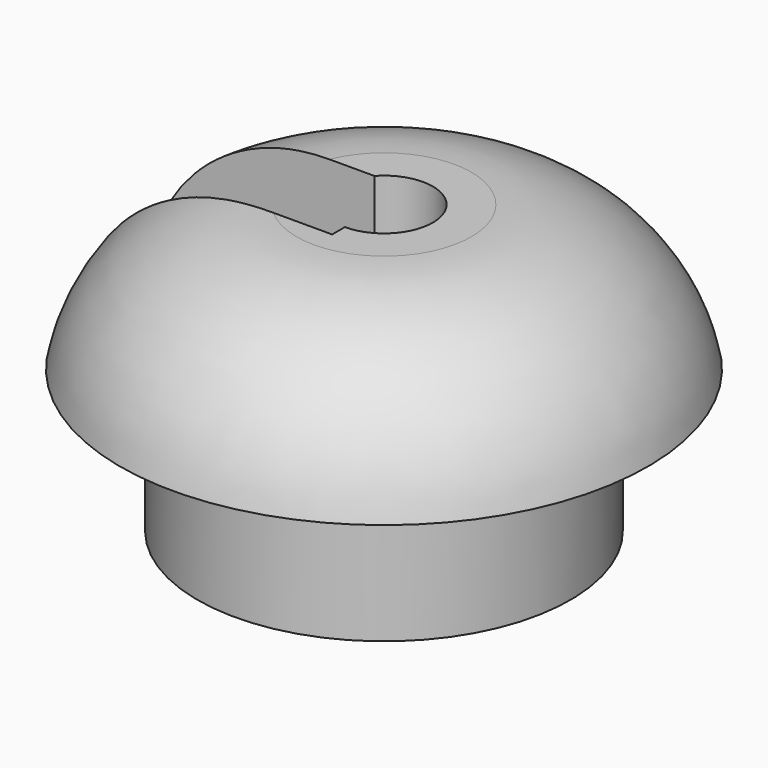
from build123d import *

# Parameters (mm, degrees)
F3_W     = 4
F3_H     = 13.1636379468
F4_DEPTH = 10.7897276517


with BuildPart() as f2:
    # F1 (on Front) → F2 (revolve)
    with BuildSketch(Plane.XZ):
        with BuildLine():
            ThreePointArc((2, 9.5173232257), (3.7962324027, 4.9229765601), (4.1105155833, 0))
            Line((4.1105155833, 0), (6.425, 0))
            Line((6.425, 0), (7.625, 0))
            Line((7.625, 0), (7.625, 5.8279288933))
            Line((7.625, 5.8279288933), (10.7887275517, 5.8279288933))
            ThreePointArc((10.7887275517, 5.8279288933), (8.2404077135, 10.0788924102), (3.5738223232, 11.7485048249))
            Line((3.5738223232, 11.7485048249), (2, 11.7485048249))
            Line((2, 11.7485048249), (2, 9.5173232257))
        make_face()
    revolve(axis=Axis((0, 0, 0), (0, 0, 1)))

    # F3 (on Right) → F4 (cut, through all)
    with BuildSketch(Plane.YZ):
        with Locations((-0.6494129193, 5.3884481313)):
            Rectangle(F3_W, F3_H)
    extrude(amount=-F4_DEPTH, mode=Mode.SUBTRACT)


solid = f2.part
